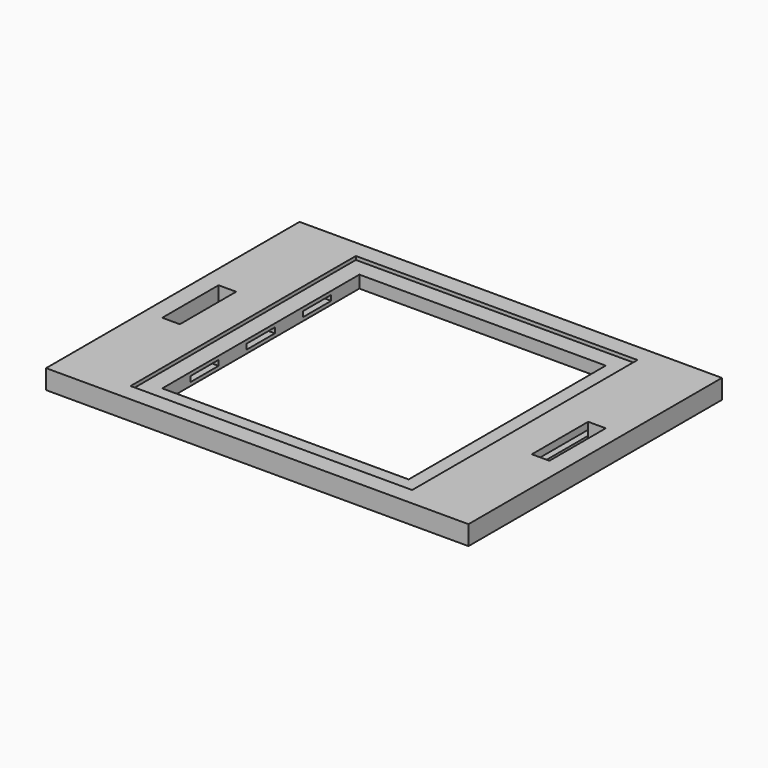
from build123d import *

# Parameters (mm, degrees)
F0_W     = 120
F0_H     = 90
F0_W_2   = 5
F0_H_2   = 10
F1_DEPTH = 2
F2_START = 2
F2_DEPTH = 1.5
F3_START = 3.5
F3_DEPTH = 2
F4_START = 1
F4_DEPTH = 1
F5_START = 2
F5_DEPTH = 1.5
F6_START = 3.5
F6_DEPTH = 1


with BuildPart() as f1:
    # F0 (on Top) → F1 (new body)
    with BuildSketch(Plane.XY):
        Rectangle(F0_W, F0_H)
        Polygon((40, 40), (40, 25), (50, 25), (50, 10), (55, 10), (55, -10), (50, -10), (50, -25), (40, -25), (40, -40), (-40, -40), (-40, -25), (-50, -25), (-50, -10), (-55, -10), (-55, 10), (-50, 10), (-50, 25), (-40, 25), (-40, 40), align=None, mode=Mode.SUBTRACT)
        Polygon((-40, 15), (-40, 25), (-50, 25), (-50, 10), (-50, -10), (-50, -25), (-40, -25), (-40, -15), (-45, -15), (-45, -5), (-40, -5), (-40, 5), (-45, 5), (-45, 15), align=None)
        Polygon((50, 25), (40, 25), (40, 15), (45, 15), (45, 5), (40, 5), (40, -5), (45, -5), (45, -15), (40, -15), (40, -25), (50, -25), (50, -10), (50, 10), align=None)
        with Locations((42.5, 10)):
            Rectangle(F0_W_2, F0_H_2)
        with Locations((42.5, -10)):
            Rectangle(F0_W_2, F0_H_2)
        with Locations((-42.5, -10)):
            Rectangle(F0_W_2, F0_H_2)
        with Locations((-42.5, 10)):
            Rectangle(F0_W_2, F0_H_2)
    extrude(amount=F1_DEPTH)

    # F0 (on Top) → F2 (join)
    with BuildSketch(Plane.XY.offset(F2_START)):
        Rectangle(F0_W, F0_H)
        Polygon((40, 40), (40, 25), (50, 25), (50, 10), (55, 10), (55, -10), (50, -10), (50, -25), (40, -25), (40, -40), (-40, -40), (-40, -25), (-50, -25), (-50, -10), (-55, -10), (-55, 10), (-50, 10), (-50, 25), (-40, 25), (-40, 40), align=None, mode=Mode.SUBTRACT)
        with Locations((-42.5, -10)):
            Rectangle(F0_W_2, F0_H_2)
        with Locations((-42.5, 10)):
            Rectangle(F0_W_2, F0_H_2)
        with Locations((42.5, 10)):
            Rectangle(F0_W_2, F0_H_2)
        with Locations((42.5, -10)):
            Rectangle(F0_W_2, F0_H_2)
    extrude(amount=F2_DEPTH)

    # F0 (on Top) → F3 (join)
    with BuildSketch(Plane.XY.offset(F3_START)):
        Rectangle(F0_W, F0_H)
        Polygon((40, 40), (40, 25), (50, 25), (50, 10), (55, 10), (55, -10), (50, -10), (50, -25), (40, -25), (40, -40), (-40, -40), (-40, -25), (-50, -25), (-50, -10), (-55, -10), (-55, 10), (-50, 10), (-50, 25), (-40, 25), (-40, 40), align=None, mode=Mode.SUBTRACT)
        Polygon((-40, 15), (-40, 25), (-50, 25), (-50, 10), (-50, -10), (-50, -25), (-40, -25), (-40, -15), (-45, -15), (-45, -5), (-40, -5), (-40, 5), (-45, 5), (-45, 15), align=None)
        Polygon((50, 25), (40, 25), (40, 15), (45, 15), (45, 5), (40, 5), (40, -5), (45, -5), (45, -15), (40, -15), (40, -25), (50, -25), (50, -10), (50, 10), align=None)
        with Locations((42.5, 10)):
            Rectangle(F0_W_2, F0_H_2)
        with Locations((42.5, -10)):
            Rectangle(F0_W_2, F0_H_2)
        with Locations((-42.5, -10)):
            Rectangle(F0_W_2, F0_H_2)
        with Locations((-42.5, 10)):
            Rectangle(F0_W_2, F0_H_2)
    extrude(amount=F3_DEPTH)

    # F0 (on Top) → F4 (join)
    with BuildSketch(Plane.XY.offset(F4_START)):
        Polygon((40, -25), (35, -25), (35, -35), (-35, -35), (-35, -25), (-40, -25), (-40, -40), (40, -40), align=None)
        with Locations((-37.5, -20)):
            Rectangle(F0_W_2, F0_H_2)
        with Locations((-37.5, -10)):
            Rectangle(F0_W_2, F0_H_2)
        with Locations((-37.5, 0)):
            Rectangle(F0_W_2, F0_H_2)
        with Locations((-37.5, 10)):
            Rectangle(F0_W_2, F0_H_2)
        with Locations((-37.5, 20)):
            Rectangle(F0_W_2, F0_H_2)
        Polygon((-35, 35), (35, 35), (35, 25), (40, 25), (40, 40), (-40, 40), (-40, 25), (-35, 25), align=None)
        with Locations((37.5, 20)):
            Rectangle(F0_W_2, F0_H_2)
        with Locations((37.5, 10)):
            Rectangle(F0_W_2, F0_H_2)
        with Locations((37.5, 0)):
            Rectangle(F0_W_2, F0_H_2)
        with Locations((37.5, -10)):
            Rectangle(F0_W_2, F0_H_2)
        with Locations((37.5, -20)):
            Rectangle(F0_W_2, F0_H_2)
    extrude(amount=F4_DEPTH)

    # F0 (on Top) → F5 (join)
    with BuildSketch(Plane.XY.offset(F5_START)):
        with Locations((-37.5, 10)):
            Rectangle(F0_W_2, F0_H_2)
        with Locations((-37.5, -10)):
            Rectangle(F0_W_2, F0_H_2)
        Polygon((40, -25), (35, -25), (35, -35), (-35, -35), (-35, -25), (-40, -25), (-40, -40), (40, -40), align=None)
        with Locations((37.5, -10)):
            Rectangle(F0_W_2, F0_H_2)
        with Locations((37.5, 10)):
            Rectangle(F0_W_2, F0_H_2)
        Polygon((-35, 35), (35, 35), (35, 25), (40, 25), (40, 40), (-40, 40), (-40, 25), (-35, 25), align=None)
    extrude(amount=F5_DEPTH)

    # F0 (on Top) → F6 (join)
    with BuildSketch(Plane.XY.offset(F6_START)):
        Polygon((-35, 35), (35, 35), (35, 25), (40, 25), (40, 40), (-40, 40), (-40, 25), (-35, 25), align=None)
        with Locations((-37.5, 20)):
            Rectangle(F0_W_2, F0_H_2)
        with Locations((-37.5, 10)):
            Rectangle(F0_W_2, F0_H_2)
        with Locations((-37.5, 0)):
            Rectangle(F0_W_2, F0_H_2)
        with Locations((-37.5, -10)):
            Rectangle(F0_W_2, F0_H_2)
        with Locations((-37.5, -20)):
            Rectangle(F0_W_2, F0_H_2)
        Polygon((40, -25), (35, -25), (35, -35), (-35, -35), (-35, -25), (-40, -25), (-40, -40), (40, -40), align=None)
        with Locations((37.5, -20)):
            Rectangle(F0_W_2, F0_H_2)
        with Locations((37.5, -10)):
            Rectangle(F0_W_2, F0_H_2)
        with Locations((37.5, 0)):
            Rectangle(F0_W_2, F0_H_2)
        with Locations((37.5, 10)):
            Rectangle(F0_W_2, F0_H_2)
        with Locations((37.5, 20)):
            Rectangle(F0_W_2, F0_H_2)
    extrude(amount=F6_DEPTH)


solid = f1.part
